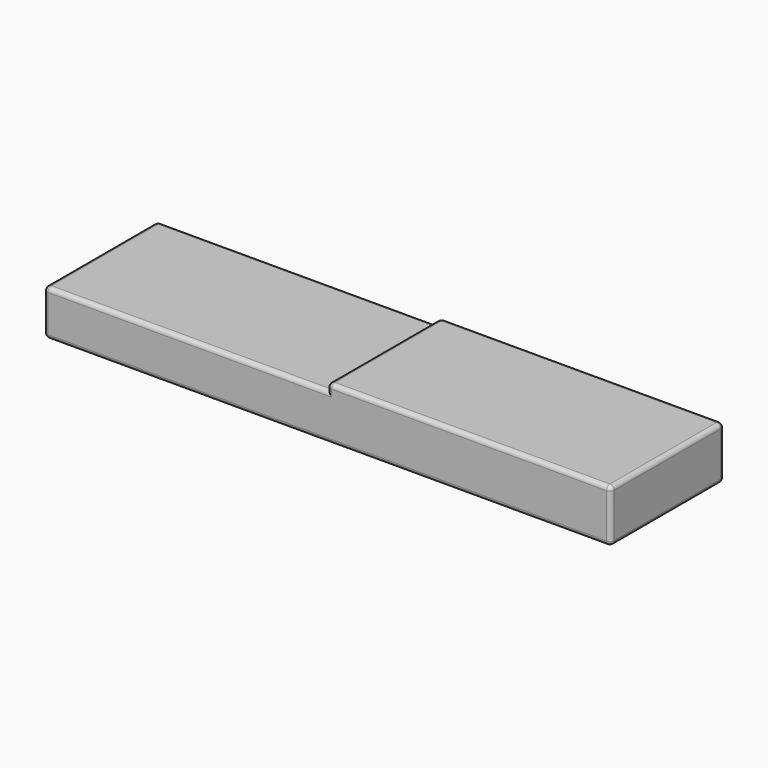
from build123d import *

# Parameters (mm, degrees)
F1_DEPTH = 5
F2_R     = 0.3


with BuildPart() as f1:
    # F0 (on Front) → F1 (new body, symmetric)
    with BuildSketch(Plane.XZ):
        Polygon((0, 3.22), (0, 0), (40, 0), (40, 3.72), (20, 3.72), (20, 3.22), align=None)
    extrude(amount=F1_DEPTH, both=True)

    # F2
    f2_edges = [f1.edges().sort_by_distance(p)[0] for p in [
        (30, 5, 3.72),
        (40, 5, 1.86),
        (20, 5, 0),
        (20, 0, 3.72),
        (10, 5, 3.22),
        (20, 5, 3.47),
        (0, 5, 1.61),
        (0, 0, 3.22),
        (0, 0, 0),
        (0, -5, 1.61),
        (10, -5, 3.22),
        (30, -5, 3.72),
        (40, 0, 3.72),
        (20, -5, 0),
        (40, -5, 1.86),
        (40, 0, 0),
        (20, -5, 3.47),
    ]]
    fillet(f2_edges, radius=F2_R)


solid = f1.part
